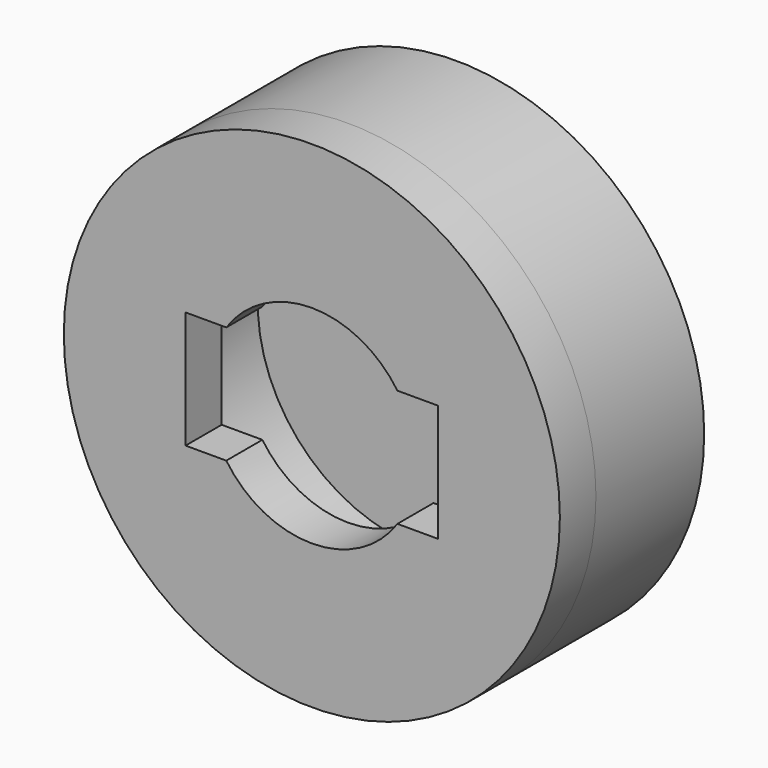
from build123d import *

# Parameters (mm, degrees)
F0_R     = 34.925
F1_DEPTH = 19.05
F2_R     = 22.86
F3_DEPTH = 12.7
F4_R     = 34.925
F5_DEPTH = 6.35
F7_DEPTH = 6.35


with BuildPart() as f1:
    # F0 (on Front) → F1 (new body)
    with BuildSketch(Plane.XZ):
        Circle(F0_R)
    extrude(amount=-F1_DEPTH)

    # F2 (on Front) → F3 (cut)
    with BuildSketch(Plane.XZ):
        Circle(F2_R)
    extrude(amount=-F3_DEPTH, mode=Mode.SUBTRACT)

    # F4 (on Front) → F5 (join)
    with BuildSketch(Plane.XZ):
        Circle(F4_R)
    extrude(amount=F5_DEPTH)

    # F6 (on Front) → F7 (cut)
    with BuildSketch(Plane.XZ):
        with BuildLine():
            Line((12.0482778852, -8.255), (17.78, -8.255))
            Line((17.78, -8.255), (17.78, 8.255))
            Line((17.78, 8.255), (12.0482778852, 8.255))
            ThreePointArc((12.0482778852, 8.255), (13.9511849589, 4.3209331449), (14.605, 0))
            ThreePointArc((14.605, 0), (13.9511849589, -4.3209331449), (12.0482778852, -8.255))
        make_face()
        with BuildLine():
            ThreePointArc((-12.0482778852, -8.255), (0, -14.605), (12.0482778852, -8.255))
            Line((12.0482778852, -8.255), (-12.0482778852, -8.255))
        make_face()
        with BuildLine():
            Line((-12.0482778852, -8.255), (12.0482778852, -8.255))
            ThreePointArc((12.0482778852, -8.255), (13.9511849589, -4.3209331449), (14.605, 0))
            ThreePointArc((14.605, 0), (13.9511849589, 4.3209331449), (12.0482778852, 8.255))
            Line((12.0482778852, 8.255), (-12.0482778852, 8.255))
            ThreePointArc((-12.0482778852, 8.255), (-14.605, 0), (-12.0482778852, -8.255))
        make_face()
        with BuildLine():
            Line((-17.78, -8.255), (-12.0482778852, -8.255))
            ThreePointArc((-12.0482778852, -8.255), (-14.605, 0), (-12.0482778852, 8.255))
            Line((-12.0482778852, 8.255), (-17.78, 8.255))
            Line((-17.78, 8.255), (-17.78, -8.255))
        make_face()
        with BuildLine():
            Line((-12.0482778852, 8.255), (12.0482778852, 8.255))
            ThreePointArc((12.0482778852, 8.255), (0, 14.605), (-12.0482778852, 8.255))
        make_face()
    extrude(amount=F7_DEPTH, mode=Mode.SUBTRACT)


solid = f1.part
